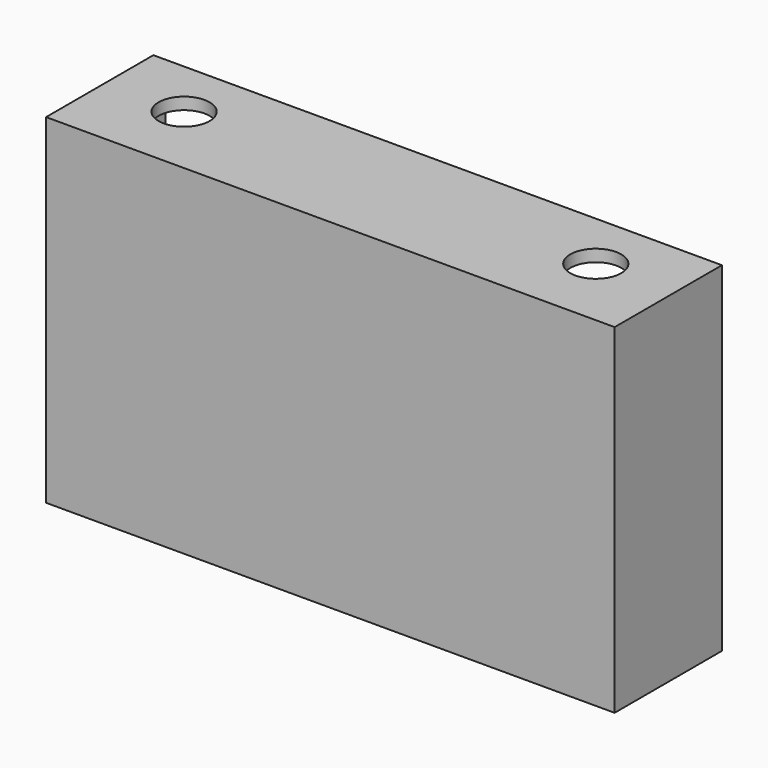
from build123d import *

# Parameters (mm, degrees)
F0_W     = 145
F0_H     = 86.6
F0_W_2   = 138.9
F0_H_2   = 80.5
F1_DEPTH = 31.15
F2_W     = 145
F2_H     = 86.6
F3_DEPTH = 3.05
F4_R     = 6.5
F5_DEPTH = 25
F6_R     = 1.5
F7_DEPTH = 25


with BuildPart() as f1:
    # F0 (on Front) → F1 (new body)
    with BuildSketch(Plane.XZ):
        Rectangle(F0_W, F0_H)
        Rectangle(F0_W_2, F0_H_2, mode=Mode.SUBTRACT)
    extrude(amount=F1_DEPTH)

    # F2 (on face) → F3 (join)
    with BuildSketch(Plane.XZ.offset(31.15)):
        Rectangle(F2_W, F2_H)
    extrude(amount=F3_DEPTH)

    # F4 (on face) → F5 (cut)
    with BuildSketch(Plane.XY.offset(43.3)):
        with Locations((-52.5, -15.2)):
            Circle(F4_R)
        with Locations((52.5, -15.2)):
            Circle(F4_R)
    extrude(amount=-F5_DEPTH, mode=Mode.SUBTRACT)

    # F6 (on face) → F7 (cut)
    with BuildSketch(Plane(origin=(0, 0, -43.3), x_dir=(1, 0, 0), z_dir=(0, 0, -1))):
        with Locations((-52.5, 15.2)):
            Circle(F6_R)
        with Locations((52.5, 15.2)):
            Circle(F6_R)
    extrude(amount=-F7_DEPTH, mode=Mode.SUBTRACT)


solid = f1.part
